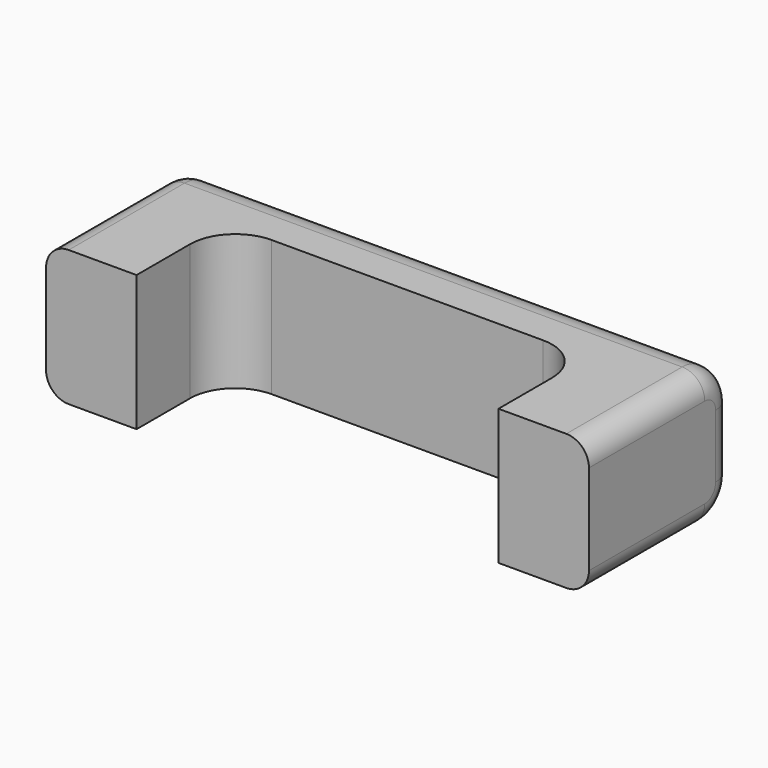
from build123d import *

# Parameters (mm, degrees)
PAD_DEPTH   = 3
FILLET_R    = 0.8
FILLET001_R = 0.8
FILLET002_R = 0.5
FILLET003_R = 0.5
FILLET004_R = 1
FILLET005_R = 1


with BuildPart() as part:
    # Sketch → Pad (new body)
    with BuildSketch(Plane.XY):
        Polygon((-4, 0), (-6, 0), (-6, 4), (6, 4), (6, 0), (4, 0), (4, 2.48), (-4, 2.48), align=None)
    extrude(amount=PAD_DEPTH)

    # Fillet
    fillet_edges = [part.edges().sort_by_distance(p)[0] for p in [
        (0, 4, 3),
    ]]
    fillet(fillet_edges, radius=FILLET_R)

    # Fillet001
    fillet001_edges = [part.edges().sort_by_distance(p)[0] for p in [
        (0, 4, 0),
    ]]
    fillet(fillet001_edges, radius=FILLET001_R)

    # Fillet002
    fillet002_edges = [part.edges().sort_by_distance(p)[0] for p in [
        (6, 1.6, 3),
    ]]
    fillet(fillet002_edges, radius=FILLET002_R)

    # Fillet003
    fillet003_edges = [part.edges().sort_by_distance(p)[0] for p in [
        (-6, 1.6, 0),
    ]]
    fillet(fillet003_edges, radius=FILLET003_R)

    # Fillet004
    fillet004_edges = [part.edges().sort_by_distance(p)[0] for p in [
        (-4, 2.48, 1.5),
    ]]
    fillet(fillet004_edges, radius=FILLET004_R)

    # Fillet005
    fillet005_edges = [part.edges().sort_by_distance(p)[0] for p in [
        (4, 2.48, 1.5),
    ]]
    fillet(fillet005_edges, radius=FILLET005_R)


solid = part.part
